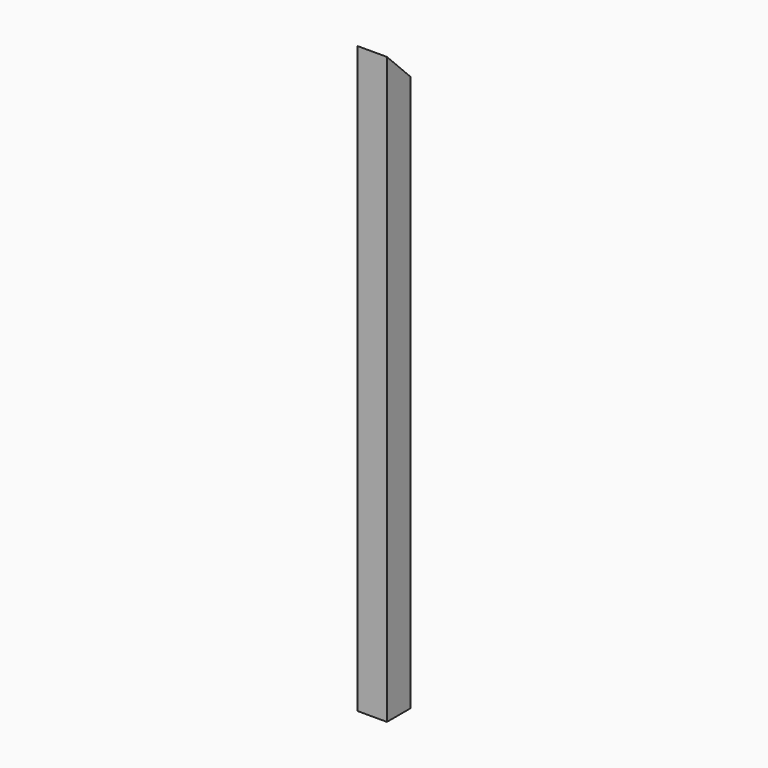
from build123d import *

# Parameters (mm, degrees)
F0_W     = 60
F0_H     = 60
F0_W_2   = 55
F0_H_2   = 55
F1_DEPTH = 1200
F3_DEPTH = 70


with BuildPart() as f1:
    # F0 (on Top) → F1 (new body)
    with BuildSketch(Plane.XY):
        with Locations((30, -30)):
            Rectangle(F0_W, F0_H)
        with Locations((30, -30)):
            Rectangle(F0_W_2, F0_H_2, mode=Mode.SUBTRACT)
    extrude(amount=F1_DEPTH)

    # F2 (on face) → F3 (cut)
    with BuildSketch(Plane.YZ.offset(60)):
        Polygon((0, 1200), (-60, 1200), (0, 1140), align=None)
    extrude(amount=-F3_DEPTH, mode=Mode.SUBTRACT)


solid = f1.part
